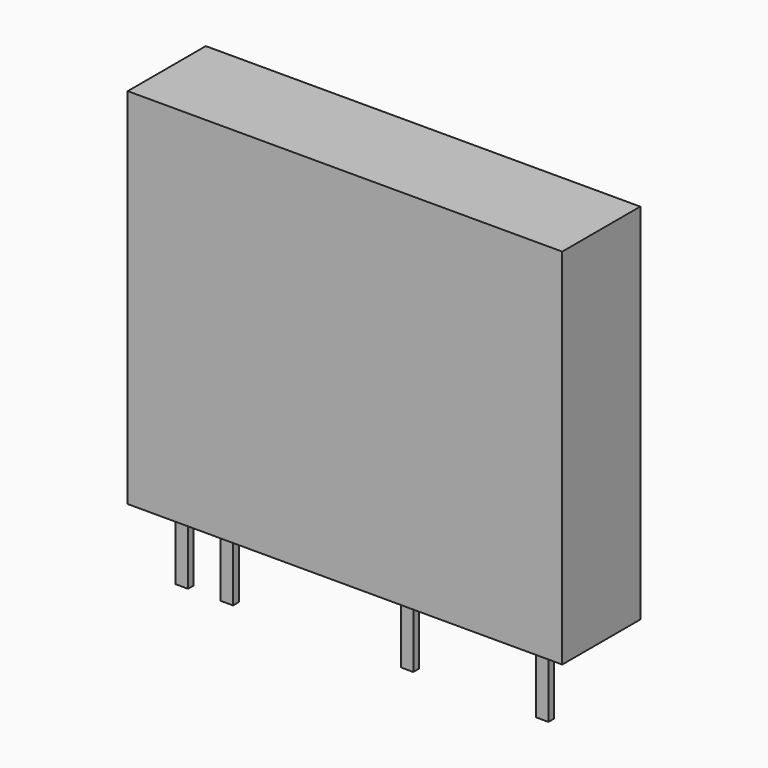
from build123d import *

# Parameters (mm, degrees)
F0_W     = 24.5
F0_H     = 5.5
F0_W_2   = 0.7
F0_H_2   = 0.4
F1_DEPTH = 20.5
F2_DEPTH = 3.9


with BuildPart() as f1:
    # F0 (on Top) → F1 (new body)
    with BuildSketch(Plane.XY):
        Rectangle(F0_W, F0_H)
        with Locations((-10.16, -1.35)):
            Rectangle(F0_W_2, F0_H_2, mode=Mode.SUBTRACT)
        with Locations((-7.62, -1.35)):
            Rectangle(F0_W_2, F0_H_2, mode=Mode.SUBTRACT)
        with Locations((2.54, -1.35)):
            Rectangle(F0_W_2, F0_H_2, mode=Mode.SUBTRACT)
        with Locations((10.16, -1.35)):
            Rectangle(F0_W_2, F0_H_2, mode=Mode.SUBTRACT)
        with Locations((-10.16, -1.35)):
            Rectangle(F0_W_2, F0_H_2)
        with Locations((2.54, -1.35)):
            Rectangle(F0_W_2, F0_H_2)
        with Locations((10.16, -1.35)):
            Rectangle(F0_W_2, F0_H_2)
        with Locations((-7.62, -1.35)):
            Rectangle(F0_W_2, F0_H_2)
    extrude(amount=F1_DEPTH)


with BuildPart() as f2:
    # F0 (on Top) → F2 (new body)
    with BuildSketch(Plane.XY):
        with Locations((-10.16, -1.35)):
            Rectangle(F0_W_2, F0_H_2)
    extrude(amount=-F2_DEPTH)


with BuildPart() as f2b:
    # F0 (on Top) → F2, piece 2 (new body)
    with BuildSketch(Plane.XY):
        with Locations((-7.62, -1.35)):
            Rectangle(F0_W_2, F0_H_2)
    extrude(amount=-F2_DEPTH)


with BuildPart() as f2c:
    # F0 (on Top) → F2, piece 3 (new body)
    with BuildSketch(Plane.XY):
        with Locations((2.54, -1.35)):
            Rectangle(F0_W_2, F0_H_2)
    extrude(amount=-F2_DEPTH)


with BuildPart() as f2d:
    # F0 (on Top) → F2, piece 4 (new body)
    with BuildSketch(Plane.XY):
        with Locations((10.16, -1.35)):
            Rectangle(F0_W_2, F0_H_2)
    extrude(amount=-F2_DEPTH)


solid = Compound([f1.part, f2.part, f2b.part, f2c.part, f2d.part])
